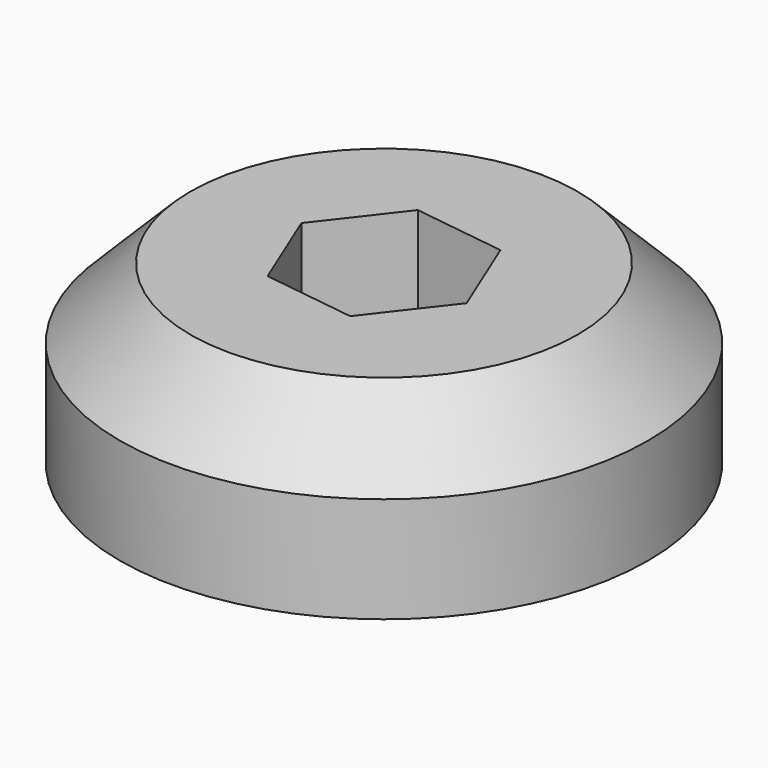
from build123d import *

# Parameters (mm, degrees)
F0_R     = 19.05
F1_DEPTH = 12.7
F3_DEPTH = 6.35
F4_R     = 3.96875
F5_DEPTH = 6.351
F6_SIZE  = 5.08


with BuildPart() as f1:
    # F0 (on Top) → F1 (new body)
    with BuildSketch(Plane.XY):
        Circle(F0_R)
    extrude(amount=F1_DEPTH)

    # F2 (on face) → F3 (cut)
    with BuildSketch(Plane.XY.offset(12.7)):
        Polygon((6.6843, -0.908523), (4.128954, 5.334513), (-2.555347, 6.243035), (-6.6843, 0.908523), (-4.128954, -5.334513), (2.555347, -6.243035), align=None)
    extrude(amount=-F3_DEPTH, mode=Mode.SUBTRACT)

    # F4 (on face) → F5 (cut, through all)
    with BuildSketch(Plane.XY.offset(6.35)):
        Circle(F4_R)
    extrude(amount=-F5_DEPTH, mode=Mode.SUBTRACT)

    # F6
    f6_edges = [f1.edges().sort_by_distance(p)[0] for p in [
        (-19.05, 0, 12.7),
    ]]
    chamfer(f6_edges, length=F6_SIZE)


solid = f1.part
